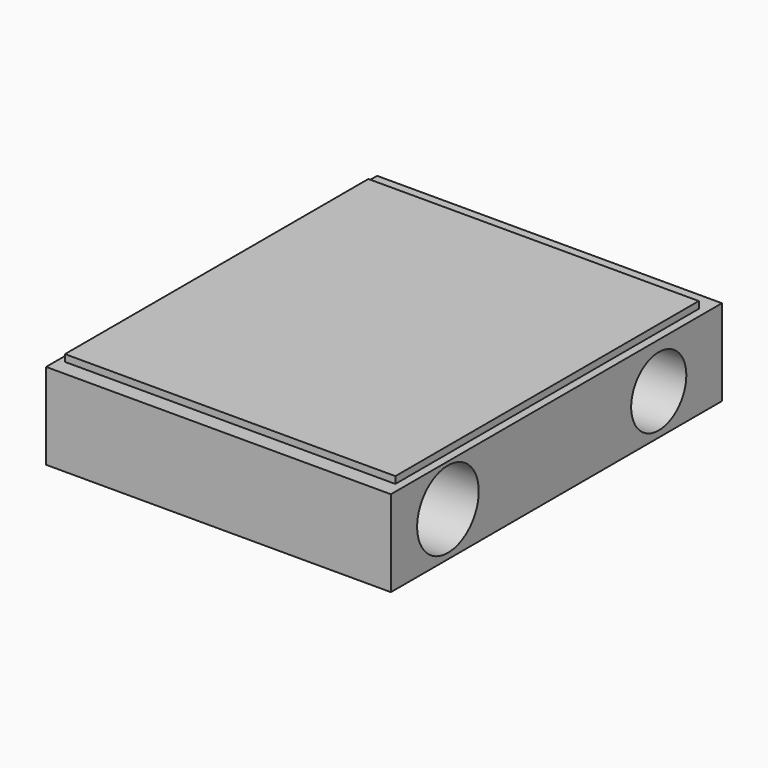
from build123d import *

# Parameters (mm, degrees)
F0_W     = 100
F0_H     = 120
F1_DEPTH = 25
F2_R     = 11.166084
F3_DEPTH = 25
F4_R     = 10
F5_DEPTH = 25
F7_W     = 95.818966
F7_H     = 109.978452
F8_DEPTH = 2
F6_W     = 42.47845
F6_H     = 5.625
F9_DEPTH = 25


with BuildPart() as f1:
    # F0 (on Top) → F1 (new body)
    with BuildSketch(Plane.XY):
        with Locations((-4.964511, -6.258356)):
            Rectangle(F0_W, F0_H)
    extrude(amount=F1_DEPTH)

    # F2 (on face) → F3 (cut)
    with BuildSketch(Plane.YZ.offset(45.035489)):
        with Locations((-45.5819, 12.801725)):
            Circle(F2_R)
    extrude(amount=-F3_DEPTH, mode=Mode.SUBTRACT)

    # F4 (on face) → F5 (cut)
    with BuildSketch(Plane.YZ.offset(45.035489)):
        with Locations((30.840518, 11.831897)):
            Circle(F4_R)
    extrude(amount=-F5_DEPTH, mode=Mode.SUBTRACT)

    # F7 (on face) → F8 (join)
    with BuildSketch(Plane.XY.offset(25)):
        with Locations((-5.237069, -6.69181)):
            Rectangle(F7_W, F7_H)
    extrude(amount=F8_DEPTH)

    # F6 (on face) → F9 (cut)
    with BuildSketch(Plane(origin=(0, 53.741644, 0), x_dir=(-1, 0, 0), z_dir=(0, 1, 0))):
        with Locations((2.812499, 11.92888)):
            Rectangle(F6_W, F6_H)
    extrude(amount=-F9_DEPTH, mode=Mode.SUBTRACT)


solid = f1.part
